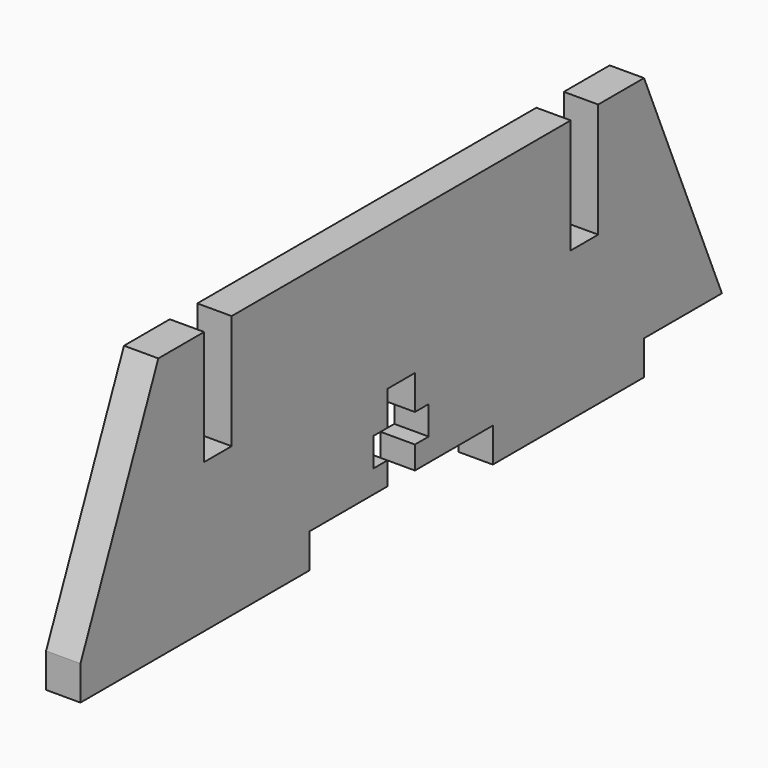
from build123d import *

# Parameters (mm, degrees)
F1_DEPTH = 3


with BuildPart() as f1:
    # F0 (on Right) → F1 (new body)
    with BuildSketch(Plane.YZ):
        Polygon((-11.5, 23.945743), (-11.5, 33.945743), (-16.5, 33.945743), (-25, 13.945743), (-25, 10.945743), (0, 10.945743), (0, 13.945743), (8.5, 13.945743), (8.5, 15.945743), (7, 15.945743), (7, 18.445743), (8.5, 18.445743), (8.5, 21.445743), (11.5, 21.445743), (11.5, 18.445743), (13, 18.445743), (13, 15.945743), (11.5, 15.945743), (11.5, 13.945743), (20, 13.945743), (20, 10.945743), (36.5, 10.945743), (36.5, 13.945743), (45, 13.945743), (36.5, 33.945743), (31.5, 33.945743), (31.5, 23.945743), (28.5, 23.945743), (28.5, 33.945743), (-8.5, 33.945743), (-8.5, 23.945743), align=None)
    extrude(amount=F1_DEPTH)


solid = f1.part
